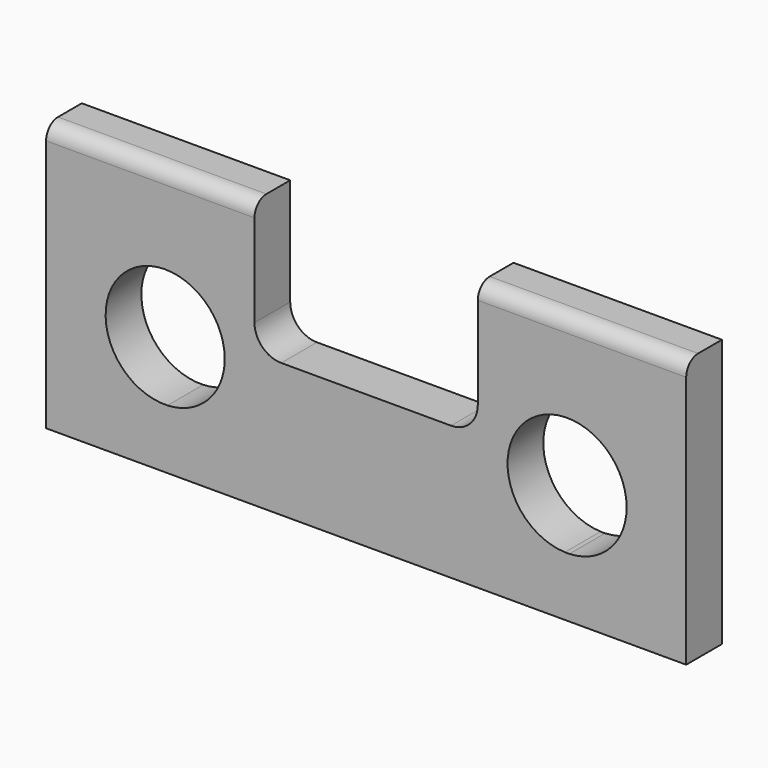
from build123d import *

# Parameters (mm, degrees)
F0_W     = 273.05
F0_H     = 114.3
F1_DEPTH = 19.05
F3_DEPTH = 25.4
F4_DEPTH = 25.4
F5_R     = 6.35
F6_R     = 6.35


with BuildPart() as f1:
    # F0 (on Front) → F1 (new body)
    with BuildSketch(Plane.XZ):
        with Locations((136.525, 57.15)):
            Rectangle(F0_W, F0_H)
    extrude(amount=F1_DEPTH)

    # F2 (on face) → F3 (cut)
    with BuildSketch(Plane.XZ.offset(19.05)):
        with BuildLine():
            ThreePointArc((72.8078575524, 38.1187458841), (75.3373142564, 44.2364484398), (76.2, 50.8))
            ThreePointArc((76.2, 50.8), (32.4977854296, 68.4121816315), (51.7756738724, 25.4187458841))
            Line((51.7756738724, 25.4187458841), (64.3298327923, 38.1187458841))
            Line((64.3298327923, 38.1187458841), (72.8078575524, 38.1187458841))
        make_face()
        with BuildLine():
            ThreePointArc((200.2421424476, 38.1187458841), (209.1205225089, 29.0565683295), (221.2743261276, 25.4187458841))
            Line((221.2743261276, 25.4187458841), (223.2256738724, 25.4187458841))
            Line((223.2256738724, 25.4187458841), (207.7043950558, 38.1187458841))
            Line((207.7043950558, 38.1187458841), (200.2421424476, 38.1187458841))
        make_face()
        with BuildLine():
            Line((223.2256738724, 25.4187458841), (221.2743261276, 25.4187458841))
            ThreePointArc((221.2743261276, 25.4187458841), (222.25, 25.4), (223.2256738724, 25.4187458841))
        make_face()
        with BuildLine():
            Line((64.3298327923, 38.1187458841), (51.7756738724, 25.4187458841))
            ThreePointArc((51.7756738724, 25.4187458841), (63.9294774911, 29.0565683295), (72.8078575524, 38.1187458841))
            Line((72.8078575524, 38.1187458841), (64.3298327923, 38.1187458841))
        make_face()
        with BuildLine():
            ThreePointArc((247.65, 50.8), (215.6864484398, 75.3373142564), (200.2421424476, 38.1187458841))
            Line((200.2421424476, 38.1187458841), (207.7043950558, 38.1187458841))
            Line((207.7043950558, 38.1187458841), (223.2256738724, 25.4187458841))
            ThreePointArc((223.2256738724, 25.4187458841), (240.5522145704, 33.1878183685), (247.65, 50.8))
        make_face()
        with BuildLine():
            Line((100.33, 57.15), (151.0539650917, 57.15))
            Line((151.0539650917, 57.15), (172.72, 57.15))
            ThreePointArc((172.72, 57.15), (180.802230509, 60.497769491), (184.15, 68.58))
            Line((184.15, 68.58), (184.15, 114.3))
            Line((184.15, 114.3), (88.9, 114.3))
            Line((88.9, 114.3), (88.9, 68.58))
            ThreePointArc((88.9, 68.58), (92.247769491, 60.497769491), (100.33, 57.15))
        make_face()
    extrude(amount=-F3_DEPTH, mode=Mode.SUBTRACT)

    # F2 (on face) → F4 (cut)
    with BuildSketch(Plane.XZ.offset(19.05)):
        with BuildLine():
            ThreePointArc((72.8078575524, 38.1187458841), (75.3373142564, 44.2364484398), (76.2, 50.8))
            ThreePointArc((76.2, 50.8), (32.4977854296, 68.4121816315), (51.7756738724, 25.4187458841))
            Line((51.7756738724, 25.4187458841), (64.3298327923, 38.1187458841))
            Line((64.3298327923, 38.1187458841), (72.8078575524, 38.1187458841))
        make_face()
        with BuildLine():
            ThreePointArc((200.2421424476, 38.1187458841), (209.1205225089, 29.0565683295), (221.2743261276, 25.4187458841))
            Line((221.2743261276, 25.4187458841), (223.2256738724, 25.4187458841))
            Line((223.2256738724, 25.4187458841), (207.7043950558, 38.1187458841))
            Line((207.7043950558, 38.1187458841), (200.2421424476, 38.1187458841))
        make_face()
        with BuildLine():
            Line((223.2256738724, 25.4187458841), (221.2743261276, 25.4187458841))
            ThreePointArc((221.2743261276, 25.4187458841), (222.25, 25.4), (223.2256738724, 25.4187458841))
        make_face()
        with BuildLine():
            Line((64.3298327923, 38.1187458841), (51.7756738724, 25.4187458841))
            ThreePointArc((51.7756738724, 25.4187458841), (63.9294774911, 29.0565683295), (72.8078575524, 38.1187458841))
            Line((72.8078575524, 38.1187458841), (64.3298327923, 38.1187458841))
        make_face()
        with BuildLine():
            ThreePointArc((247.65, 50.8), (215.6864484398, 75.3373142564), (200.2421424476, 38.1187458841))
            Line((200.2421424476, 38.1187458841), (207.7043950558, 38.1187458841))
            Line((207.7043950558, 38.1187458841), (223.2256738724, 25.4187458841))
            ThreePointArc((223.2256738724, 25.4187458841), (240.5522145704, 33.1878183685), (247.65, 50.8))
        make_face()
    extrude(amount=-F4_DEPTH, mode=Mode.SUBTRACT)

    # F5
    f5_edges = [f1.edges().sort_by_distance(p)[0] for p in [
        (44.45, -19.05, 114.3),
    ]]
    fillet(f5_edges, radius=F5_R)

    # F6
    f6_edges = [f1.edges().sort_by_distance(p)[0] for p in [
        (228.6, -19.05, 114.3),
    ]]
    fillet(f6_edges, radius=F6_R)


solid = f1.part
